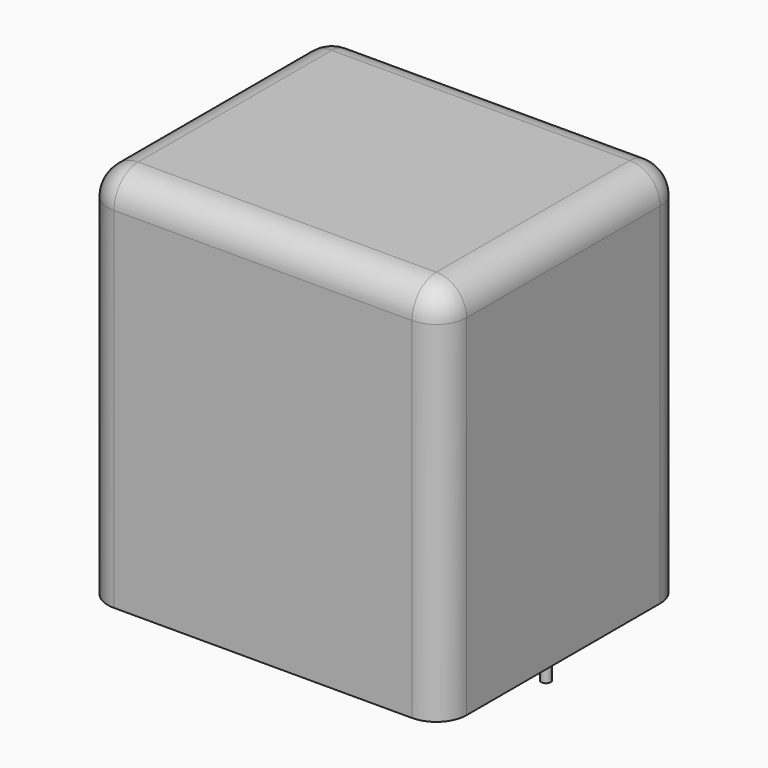
from build123d import *

# Parameters (mm, degrees)
SKETCH_W     = 41.5
SKETCH_H     = 35
PAD_DEPTH    = 44
FILLET_R     = 3.5
SKETCH001_R  = 0.55
PAD001_DEPTH = 3.2


with BuildPart() as fillet_body:
    # Sketch → Pad (new body)
    with BuildSketch(Plane.XY.offset(0.1)):
        with Locations((18.75, 0)):
            Rectangle(SKETCH_W, SKETCH_H)
    extrude(amount=PAD_DEPTH)

    # Fillet
    fillet_edges = [fillet_body.edges().sort_by_distance(p)[0] for p in [
        (-2, 0, 44.1),
        (-2, -17.5, 22.1),
        (18.75, -17.5, 44.1),
        (39.5, -17.5, 22.1),
        (39.5, 0, 44.1),
        (39.5, 17.5, 22.1),
        (18.75, 17.5, 44.1),
        (-2, 17.5, 22.1),
    ]]
    fillet(fillet_edges, radius=FILLET_R)


with BuildPart() as pad001:
    # Sketch001 → Pad001 (new body)
    with BuildSketch(Plane.XY.offset(0.5)):
        Circle(SKETCH001_R)
        with Locations((37.5, 0)):
            Circle(SKETCH001_R)
    extrude(amount=-PAD001_DEPTH)


solid = Compound([fillet_body.part, pad001.part])
